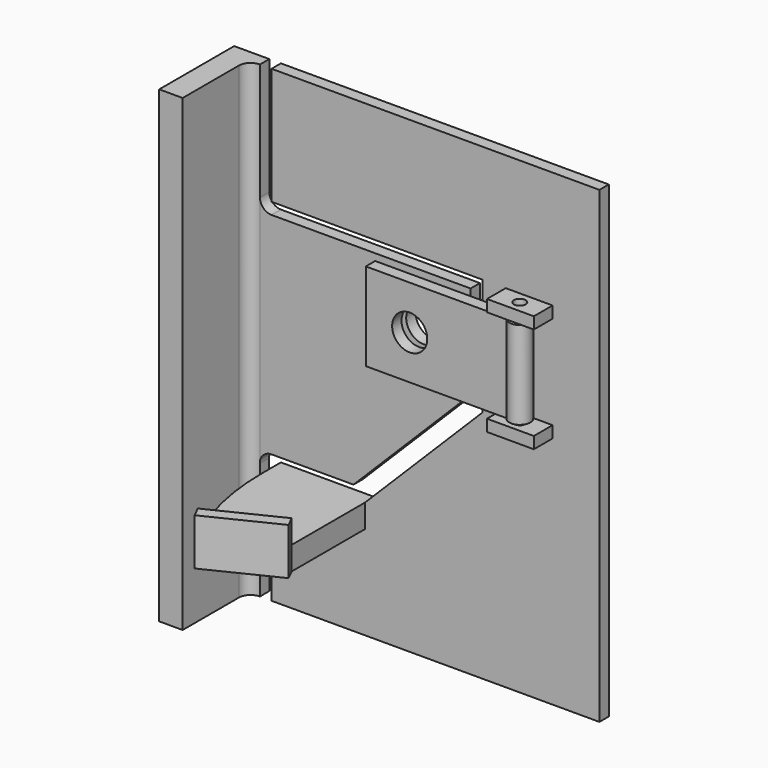
from build123d import *

# Parameters (mm, degrees)
F1_DEPTH      = 6.35
F3_DEPTH      = 6.35
F4_R          = 9.525
F5_DEPTH      = 6.35
F6_W          = 25.4
F6_H          = 6.35
F7_DEPTH      = 12.7
F8_R          = 3.175
F9_DEPTH      = 63.5
F9_DEPTH_BACK = 25.4
F10_R         = 3.175
F10_W         = 68.2519048813
F10_H         = 6.35
F11_DEPTH     = 50.8
F12_R         = 9.525
F13_DEPTH     = 6.35
F14_W         = 3.175
F14_H         = 1.5875
F14_W_2       = 6.35
F15_DEPTH     = 119.0529048813
F17_DEPTH     = 254
F18_W         = 50.8
F18_H         = 12.7
F19_DEPTH     = 69.85
F21_DEPTH     = 12.7
F22_W         = 40.7479911996
F22_H         = 12.7
F23_DEPTH     = 6.35


with BuildPart() as f1:
    # F0 (on Front) → F1 (new body)
    with BuildSketch(Plane.XZ):
        Polygon((177.8, 0), (0, 0), (0, -63.5), (114.3, -63.5), (114.3, -127), (50.8, -190.5), (0, -190.5), (0, -254), (177.8, -254), align=None)
    extrude(amount=F1_DEPTH)

    # F6 (on face) → F7 (join)
    with BuildSketch(Plane.XZ.offset(6.35)):
        with Locations((139.7, -66.6157917917)):
            Rectangle(F6_W, F6_H)
        Polygon((152.4, -120.5907917917), (139.7, -120.5907917917), (127, -120.5907917917), (127, -126.9407917917), (152.4, -126.9407917917), align=None)
    extrude(amount=F7_DEPTH)

    # F8 (on face) → F9 (cut, two sides)
    with BuildSketch(Plane(origin=(0, 0, -126.9407917917), x_dir=(1, 0, 0), z_dir=(0, 0, -1))) as f9_sk:
        with Locations((139.7, 12.7)):
            Circle(F8_R)
    extrude(amount=-F9_DEPTH, mode=Mode.SUBTRACT)
    extrude(f9_sk.sketch, amount=F9_DEPTH_BACK, mode=Mode.SUBTRACT)

    # F10 (on face) → F11 (join, through all)
    with BuildSketch(Plane(origin=(0, 0, -69.7907917917), x_dir=(1, 0, 0), z_dir=(0, 0, -1))):
        with BuildLine():
            ThreePointArc((134.9480951187, 9.525), (133.9849999999, 12.7), (134.9480951187, 15.875))
            Line((134.9480951187, 15.875), (127, 15.875))
            Line((127, 15.875), (127, 9.525))
            Line((127, 9.525), (134.9480951187, 9.525))
        make_face()
        with BuildLine():
            ThreePointArc((145.4149999999, 12.7), (141.3589286608, 18.1689286609), (134.9480951187, 15.875))
            ThreePointArc((134.9480951187, 15.875), (133.9849999999, 12.7), (134.9480951187, 9.525))
            ThreePointArc((134.9480951187, 9.525), (141.3589286608, 7.2310713391), (145.4149999999, 12.7))
        make_face()
        with Locations((139.6999999999, 12.7)):
            Circle(F10_R, mode=Mode.SUBTRACT)
        with Locations((92.8740475593, 12.7)):
            Rectangle(F10_W, F10_H)
    extrude(amount=F11_DEPTH)

    # F12 (on face) → F13 (cut, through all)
    with BuildSketch(Plane(origin=(0, -9.525, 0), x_dir=(-1, 0, 0), z_dir=(0, 1, 0))):
        with Locations((-82.5499999999, -95.1907917917)):
            Circle(F12_R)
    extrude(amount=-F13_DEPTH, mode=Mode.SUBTRACT)

    # F14 (on face) → F15 (cut, through all)
    with BuildSketch(Plane(origin=(58.7480951187, 0, 0), x_dir=(0, -1, 0), z_dir=(-1, 0, 0))):
        with Locations((17.4625, -119.7970417917)):
            Rectangle(F14_W, F14_H)
        with Locations((12.7, -119.7970417917)):
            Rectangle(F14_W_2, F14_H)
        with Locations((7.9375, -119.7970417917)):
            Rectangle(F14_W, F14_H)
        with Locations((7.9375, -70.5845417917)):
            Rectangle(F14_W, F14_H)
        with Locations((12.7, -70.5845417917)):
            Rectangle(F14_W_2, F14_H)
        with Locations((17.4625, -70.5845417917)):
            Rectangle(F14_W, F14_H)
    extrude(amount=-F15_DEPTH, mode=Mode.SUBTRACT)

    # F18 (on face) → F19 (join)
    with BuildSketch(Plane.XZ.offset(6.35)):
        with Locations((25.4, -196.85)):
            Rectangle(F18_W, F18_H)
    extrude(amount=F19_DEPTH)

    # F20 (on face) → F21 (cut, through all)
    with BuildSketch(Plane.XY.offset(-190.5)):
        with BuildLine():
            ThreePointArc((14.1913807151, -74.0488099738), (3.5940778032, -44.1844079339), (0, -12.7))
            Line((0, -12.7), (0, -76.2))
            Line((0, -76.2), (50.8, -76.2))
            Line((50.8, -76.2), (50.8, -56.1544594446))
            Line((50.8, -56.1544594446), (14.1913807151, -74.0488099738))
        make_face()
    extrude(amount=-F21_DEPTH, mode=Mode.SUBTRACT)

    # F22 (on face) → F23 (join)
    with BuildSketch(Plane(origin=(31.9517444991, -65.367516298, 0), x_dir=(0.8984153134, 0.4391468144, 0), z_dir=(0.4391468144, -0.8984153134, 0))):
        with Locations((0.6054503416, -184.15)):
            Rectangle(F22_W, F22_H)
        with Locations((0.6054503416, -196.85)):
            Rectangle(F22_W, F22_H)
    extrude(amount=F23_DEPTH)


with BuildPart() as f3:
    # F2 (on Front) → F3 (new body)
    with BuildSketch(Plane.XZ):
        with BuildLine():
            Line((107.95, -69.7907917917), (0, -69.7907917917))
            ThreePointArc((0, -69.7907917917), (-4.4482615349, -67.9482615349), (-6.2907917917, -63.5))
            Line((-6.2907917917, -63.5), (-6.2907917917, 0))
            Line((-6.2907917917, 0), (-25.3407917917, 0))
            Line((-25.3407917917, 0), (-25.3407917917, -254))
            Line((-25.3407917917, -254), (-6.2907917917, -254))
            Line((-6.2907917917, -254), (-6.4092082083, -190.5))
            ThreePointArc((-6.4092082083, -190.5), (-4.5319945861, -185.9680054139), (0, -184.0907917917))
            Line((0, -184.0907917917), (44.45, -184.0907917917))
            Line((44.45, -184.0907917917), (107.95, -120.5907917917))
            Line((107.95, -120.5907917917), (107.95, -69.7907917917))
        make_face()
    extrude(amount=F3_DEPTH)

    # F4 (on face) → F5 (cut, through all)
    with BuildSketch(Plane.XZ.offset(6.35)):
        with Locations((82.55, -95.1907917917)):
            Circle(F4_R)
    extrude(amount=-F5_DEPTH, mode=Mode.SUBTRACT)

    # F16 (on face) → F17 (join)
    with BuildSketch(Plane(origin=(0, 0, -254), x_dir=(1, 0, 0), z_dir=(0, 0, -1))):
        with BuildLine():
            Line((-25.3407917917, 50.8), (-25.3407917917, 6.35))
            Line((-25.3407917917, 6.35), (-6.2907917917, 6.35))
            ThreePointArc((-6.2907917917, 6.35), (-10.7809198522, 8.2098719395), (-12.6407917917, 12.7))
            Line((-12.6407917917, 12.7), (-12.6407917917, 50.8))
            Line((-12.6407917917, 50.8), (-25.3407917917, 50.8))
        make_face()
    extrude(amount=-F17_DEPTH)


solid = Compound([f1.part, f3.part])
